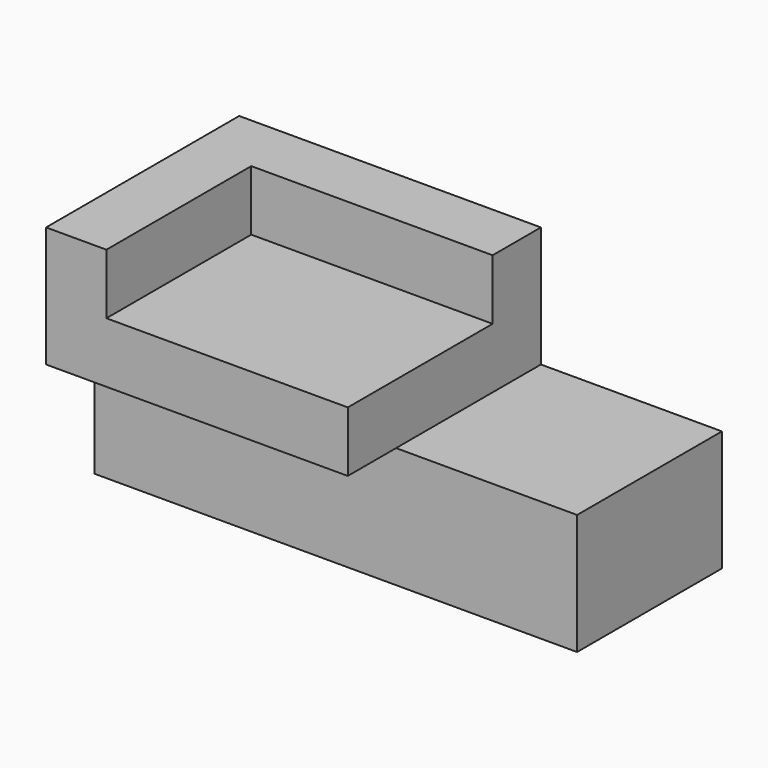
from build123d import *

# Parameters (mm, degrees)
F0_W     = 203.2
F0_H     = 50.8
F1_DEPTH = 76.2
F2_W     = 127
F2_H     = 101.6
F3_DEPTH = 50.8
F4_W     = 101.6
F4_H     = 76.2
F5_DEPTH = 25.4


with BuildPart() as f1:
    # F0 (on Front) → F1 (new body)
    with BuildSketch(Plane.XZ):
        with Locations((-40.402338, -28.308617)):
            Rectangle(F0_W, F0_H)
    extrude(amount=F1_DEPTH)

    # F2 (on face) → F3 (join)
    with BuildSketch(Plane.XY.offset(-2.908617)):
        with Locations((-78.502338, -50.8)):
            Rectangle(F2_W, F2_H)
    extrude(amount=F3_DEPTH)

    # F4 (on face) → F5 (cut)
    with BuildSketch(Plane.XY.offset(47.891383)):
        with Locations((-65.802338, -63.5)):
            Rectangle(F4_W, F4_H)
    extrude(amount=-F5_DEPTH, mode=Mode.SUBTRACT)


solid = f1.part
